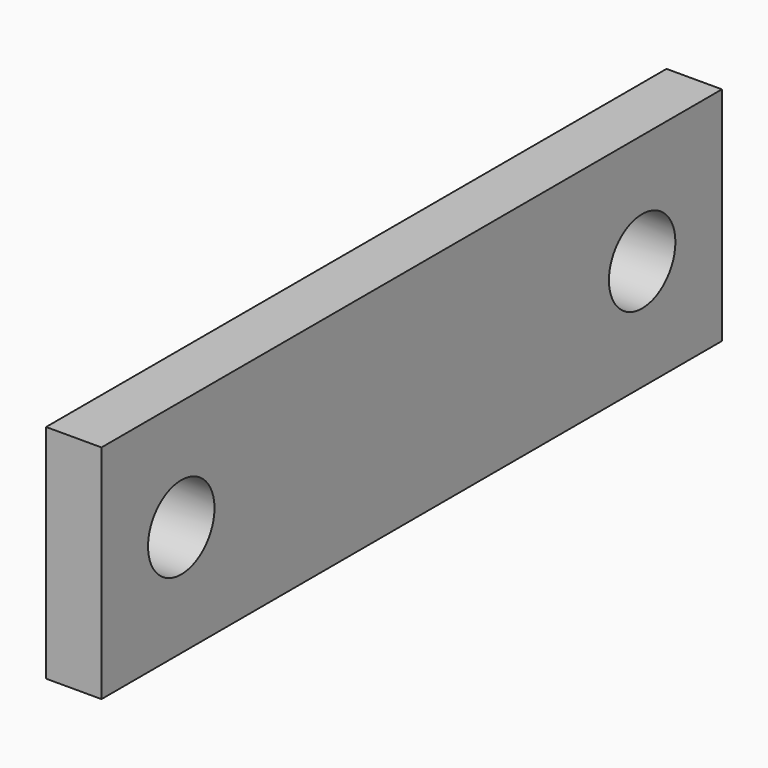
from build123d import *

# Parameters (mm, degrees)
F0_W     = 177.8
F0_H     = 50.8
F0_R     = 9.525
F1_DEPTH = 6.35


with BuildPart() as f1:
    # F0 (on Right) → F1 (new body, symmetric)
    with BuildSketch(Plane.YZ):
        Rectangle(F0_W, F0_H)
        with Locations((-66.04, 0)):
            Circle(F0_R, mode=Mode.SUBTRACT)
        with Locations((66.04, 0)):
            Circle(F0_R, mode=Mode.SUBTRACT)
    extrude(amount=F1_DEPTH, both=True)


solid = f1.part
